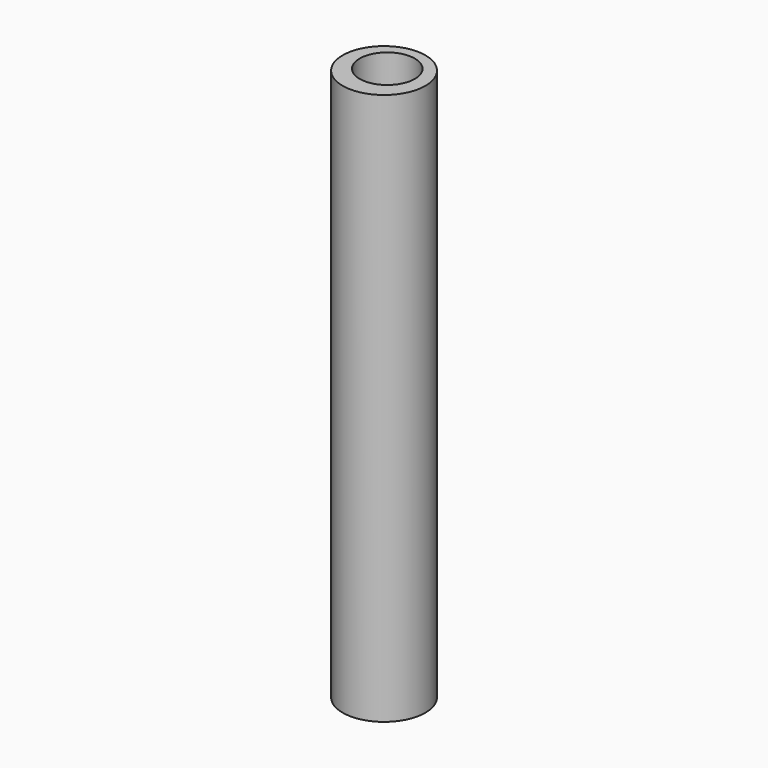
from build123d import *

# Parameters (mm, degrees)
F0_R     = 1.905
F1_DEPTH = 25.4
F3_D     = 2.54


with BuildPart() as f1:
    # F0 (on Top) → F1 (new body)
    with BuildSketch(Plane.XY):
        with Locations((-49.4070984423, 47.0104850829)):
            Circle(F0_R)
    extrude(amount=F1_DEPTH)

    # F3 (through all)
    with Locations(Plane(origin=(0, 0, 0), x_dir=(1, 0, 0), z_dir=(0, 0, -1))):
        with Locations((-49.4070984423, -47.1948385239)):
            Hole(F3_D / 2)


solid = f1.part
